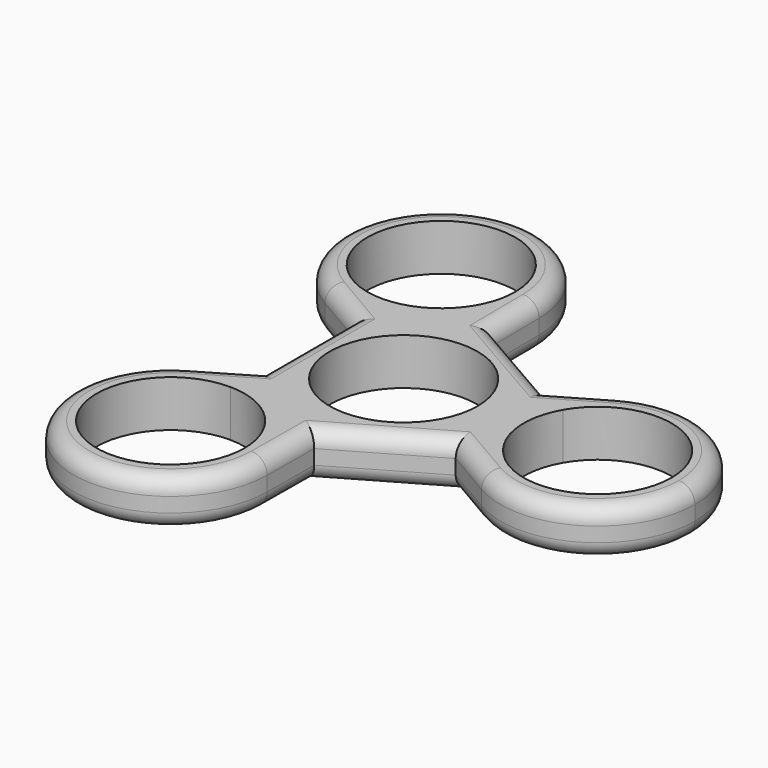
from build123d import *

# Parameters (mm, degrees)
F0_R     = 11.1
F1_DEPTH = 7
F2_R     = 2.4


with BuildPart() as f1:
    # F0 (on Top) → F1 (new body)
    with BuildSketch(Plane.XY):
        with BuildLine():
            Line((-5.1244514932, 19.7437329062), (-2.093196528, 17.9936370361))
            ThreePointArc((-2.093196528, 17.9936370361), (-0.5848907385, 21.5656555293), (-0.0700173662, 25.4087282428))
            ThreePointArc((-0.0700173662, 25.4087282428), (-0.0701360438, 25.4675956509), (-0.0704920746, 25.526462102))
            ThreePointArc((-0.0704920746, 25.526462102), (-21.9703239086, 38.0525221508), (-22.0711303014, 12.8236765019))
            ThreePointArc((-22.0711303014, 12.8236765019), (-18.4407366098, 11.3040596403), (-14.5363485157, 10.8093401516))
            Line((-14.5363485157, 10.8093401516), (-14.5363485157, 14.3095331081))
            ThreePointArc((-14.5363485157, 14.3095331081), (-22.5660202866, 33.2102112993), (-3.5700173662, 25.4087282428))
            ThreePointArc((-3.5700173662, 25.4087282428), (-3.9656775643, 22.4715341048), (-5.1244514932, 19.7437329062))
        make_face()
        with BuildLine():
            Line((-2.093196528, 17.9936370361), (0, 16.7851294572))
            Line((0, 16.7851294572), (-0.0704920746, 25.526462102))
            ThreePointArc((-0.0704920746, 25.526462102), (-0.0701360438, 25.4675956509), (-0.0700173662, 25.4087282428))
            ThreePointArc((-0.0700173662, 25.4087282428), (-0.5848907385, 21.5656555293), (-2.093196528, 17.9936370361))
        make_face()
        with BuildLine():
            Line((-22.0711303014, 12.8236765019), (-14.5363485157, 8.3925647286))
            Line((-14.5363485157, 8.3925647286), (-14.5363485157, 10.8093401516))
            ThreePointArc((-14.5363485157, 10.8093401516), (-18.4407366098, 11.3040596403), (-22.0711303014, 12.8236765019))
        make_face()
        with BuildLine():
            ThreePointArc((-14.5363485157, 10.8093401516), (-7.3698346656, 12.7648628316), (-2.093196528, 17.9936370361))
            Line((-2.093196528, 17.9936370361), (-5.1244514932, 19.7437329062))
            ThreePointArc((-5.1244514932, 19.7437329062), (-9.1198346602, 15.7959517485), (-14.5363485157, 14.3095331081))
            Line((-14.5363485157, 14.3095331081), (-14.5363485157, 10.8093401516))
        make_face()
        with BuildLine():
            Line((-14.5363485157, 8.3925647286), (0, 16.7851294572))
            Line((0, 16.7851294572), (-2.093196528, 17.9936370361))
            ThreePointArc((-2.093196528, 17.9936370361), (-7.3698346656, 12.7648628316), (-14.5363485157, 10.8093401516))
            Line((-14.5363485157, 10.8093401516), (-14.5363485157, 8.3925647286))
        make_face()
        Polygon((14.5363485157, -4.22e-08), (14.5363485157, 8.3925647286), (0, 16.7851294572), (-14.5363485157, 8.3925647286), (-14.5363485157, -8.3925647286), (0, -16.7851294572), (14.5363485157, -8.3925647286), align=None)
        Circle(F0_R, mode=Mode.SUBTRACT)
        with BuildLine():
            ThreePointArc((21.7886101299, 12.616288702), (18.7818728319, 10.2929506612), (16.4764947898, 7.272420755))
            Line((16.4764947898, 7.272420755), (19.5075931753, 5.5224152862))
            ThreePointArc((19.5075931753, 5.5224152862), (31.9938662953, 10.7258842125), (40.2363485157, 0))
            ThreePointArc((40.2363485157, 0), (31.9938662953, -10.7258842125), (19.5075931753, -5.5224152862))
            Line((19.5075931753, -5.5224152862), (16.4764947898, -7.272420755))
            ThreePointArc((16.4764947898, -7.272420755), (18.7818728319, -10.2929506612), (21.7886101299, -12.616288702))
            ThreePointArc((21.7886101299, -12.616288702), (36.4124401715, -12.6577442784), (43.7363485157, 0))
            ThreePointArc((43.7363485157, 0), (36.4124401715, 12.6577442784), (21.7886101299, 12.616288702))
        make_face()
        with BuildLine():
            Line((21.7886101299, 12.616288702), (14.5363485157, 8.3925647286))
            Line((14.5363485157, 8.3925647286), (16.4764947898, 7.272420755))
            ThreePointArc((16.4764947898, 7.272420755), (18.7818728319, 10.2929506612), (21.7886101299, 12.616288702))
        make_face()
        with BuildLine():
            Line((16.4764947898, 7.272420755), (14.5363485157, 8.3925647286))
            Line((14.5363485157, 8.3925647286), (14.5363485157, -4.22e-08))
            ThreePointArc((14.5363485157, -4.22e-08), (15.0297212664, 3.7633851314), (16.4764947898, 7.272420755))
        make_face()
        with BuildLine():
            ThreePointArc((16.4764947898, -7.272420755), (15.0297212773, -3.7633851722), (14.5363485157, -4.22e-08))
            Line((14.5363485157, -4.22e-08), (14.5363485157, -8.3925647286))
            Line((14.5363485157, -8.3925647286), (16.4764947898, -7.272420755))
        make_face()
        with BuildLine():
            ThreePointArc((16.4764947898, 7.272420755), (15.0297212664, 3.7633851314), (14.5363485157, -4.22e-08))
            ThreePointArc((14.5363485157, -4.22e-08), (15.0297212773, -3.7633851722), (16.4764947898, -7.272420755))
            Line((16.4764947898, -7.272420755), (19.5075931753, -5.5224152862))
            ThreePointArc((19.5075931753, -5.5224152862), (18.0363485157, 0), (19.5075931753, 5.5224152862))
            Line((19.5075931753, 5.5224152862), (16.4764947898, 7.272420755))
        make_face()
        with BuildLine():
            Line((16.4764947898, -7.272420755), (14.5363485157, -8.3925647286))
            Line((14.5363485157, -8.3925647286), (21.7886101299, -12.616288702))
            ThreePointArc((21.7886101299, -12.616288702), (18.7818728319, -10.2929506612), (16.4764947898, -7.272420755))
        make_face()
        with BuildLine():
            Line((-5.1244514932, -19.7437329062), (-2.093196528, -17.9936370361))
            ThreePointArc((-2.093196528, -17.9936370361), (-7.3698346656, -12.7648628316), (-14.5363485157, -10.8093401516))
            Line((-14.5363485157, -10.8093401516), (-14.5363485157, -14.3095331081))
            ThreePointArc((-14.5363485157, -14.3095331081), (-9.1198346602, -15.7959517485), (-5.1244514932, -19.7437329062))
        make_face()
        with BuildLine():
            ThreePointArc((-0.0700173662, -25.4087282428), (-0.5848907385, -21.5656555293), (-2.093196528, -17.9936370361))
            Line((-2.093196528, -17.9936370361), (-5.1244514932, -19.7437329062))
            ThreePointArc((-5.1244514932, -19.7437329062), (-3.9656775643, -22.4715341048), (-3.5700173662, -25.4087282428))
            ThreePointArc((-3.5700173662, -25.4087282428), (-22.5660202866, -33.2102112993), (-14.5363485157, -14.3095331081))
            Line((-14.5363485157, -14.3095331081), (-14.5363485157, -10.8093401516))
            ThreePointArc((-14.5363485157, -10.8093401516), (-18.4407366098, -11.3040596403), (-22.0711303014, -12.8236765019))
            ThreePointArc((-22.0711303014, -12.8236765019), (-21.9703239086, -38.0525221508), (-0.0704920746, -25.526462102))
            ThreePointArc((-0.0704920746, -25.526462102), (-0.0701360438, -25.4675956509), (-0.0700173662, -25.4087282428))
        make_face()
        with BuildLine():
            Line((-14.5363485157, -10.8093401516), (-14.5363485157, -8.3925647286))
            Line((-14.5363485157, -8.3925647286), (-22.0711303014, -12.8236765019))
            ThreePointArc((-22.0711303014, -12.8236765019), (-18.4407366098, -11.3040596403), (-14.5363485157, -10.8093401516))
        make_face()
        with BuildLine():
            Line((-2.093196528, -17.9936370361), (0, -16.7851294572))
            Line((0, -16.7851294572), (-14.5363485157, -8.3925647286))
            Line((-14.5363485157, -8.3925647286), (-14.5363485157, -10.8093401516))
            ThreePointArc((-14.5363485157, -10.8093401516), (-7.3698346656, -12.7648628316), (-2.093196528, -17.9936370361))
        make_face()
        with BuildLine():
            Line((-0.0704920746, -25.526462102), (0, -16.7851294572))
            Line((0, -16.7851294572), (-2.093196528, -17.9936370361))
            ThreePointArc((-2.093196528, -17.9936370361), (-0.5848907385, -21.5656555293), (-0.0700173662, -25.4087282428))
            ThreePointArc((-0.0700173662, -25.4087282428), (-0.0701360438, -25.4675956509), (-0.0704920746, -25.526462102))
        make_face()
    extrude(amount=F1_DEPTH)

    # F2
    f2_edges = [f1.edges().sort_by_distance(p)[0] for p in [
        (-18.303739, -10.608121, 0),
        (-18.303739, 10.608121, 0),
        (-21.970324, -38.052522, 7),
        (-0.070492, 25.526462, 3.5),
        (-22.07113, 12.823677, 3.5),
        (-21.970324, 38.052522, 0),
        (-21.970324, 38.052522, 7),
        (18.162479, 10.504427, 7),
        (18.162479, 10.504427, 0),
        (-14.536349, 0, 0),
        (7.268174, 12.588847, 7),
        (7.268174, 12.588847, 0),
        (7.268174, -12.588847, 0),
        (-14.536349, 0, 7),
        (7.268174, -12.588847, 7),
    ]]
    fillet(f2_edges, radius=F2_R)


solid = f1.part
